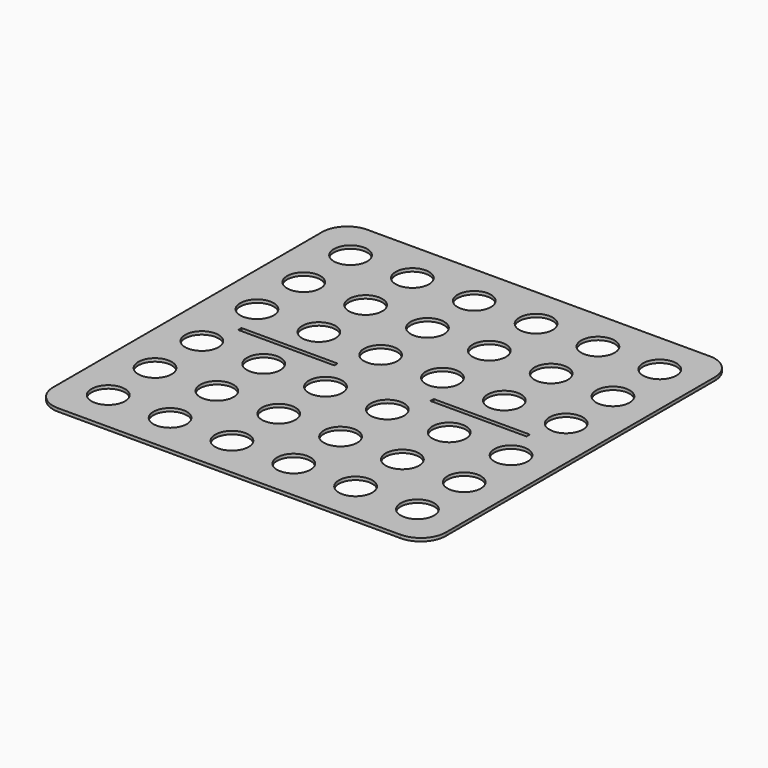
from build123d import *

# Parameters (mm, degrees)
F0_W     = 596.9
F0_H     = 587.3496
F0_R     = 25.4
F1_DEPTH = 4.7752
F2_R     = 38.1
F3_W     = 146.05
F3_H     = 6.35
F4_DEPTH = 25.4


with BuildPart() as f1:
    # F0 (on Top) → F1 (new body)
    with BuildSketch(Plane.XY):
        with Locations((298.45, 293.6748)):
            Rectangle(F0_W, F0_H)
        with Locations((63.5, 63.5)):
            Circle(F0_R, mode=Mode.SUBTRACT)
        with Locations((157.48, 63.5)):
            Circle(F0_R, mode=Mode.SUBTRACT)
        with Locations((251.46, 63.5)):
            Circle(F0_R, mode=Mode.SUBTRACT)
        with Locations((63.5, 152.4)):
            Circle(F0_R, mode=Mode.SUBTRACT)
        with Locations((63.5, 241.3)):
            Circle(F0_R, mode=Mode.SUBTRACT)
        with Locations((157.48, 152.4)):
            Circle(F0_R, mode=Mode.SUBTRACT)
        with Locations((251.46, 152.4)):
            Circle(F0_R, mode=Mode.SUBTRACT)
        with Locations((157.48, 241.3)):
            Circle(F0_R, mode=Mode.SUBTRACT)
        with Locations((251.46, 241.3)):
            Circle(F0_R, mode=Mode.SUBTRACT)
        with Locations((345.44, 63.5)):
            Circle(F0_R, mode=Mode.SUBTRACT)
        with Locations((439.42, 63.5)):
            Circle(F0_R, mode=Mode.SUBTRACT)
        with Locations((533.4, 63.5)):
            Circle(F0_R, mode=Mode.SUBTRACT)
        with Locations((345.44, 152.4)):
            Circle(F0_R, mode=Mode.SUBTRACT)
        with Locations((439.42, 152.4)):
            Circle(F0_R, mode=Mode.SUBTRACT)
        with Locations((345.44, 241.3)):
            Circle(F0_R, mode=Mode.SUBTRACT)
        with Locations((439.42, 241.3)):
            Circle(F0_R, mode=Mode.SUBTRACT)
        with Locations((533.4, 152.4)):
            Circle(F0_R, mode=Mode.SUBTRACT)
        with Locations((533.4, 241.3)):
            Circle(F0_R, mode=Mode.SUBTRACT)
        with Locations((63.5, 346.0496)):
            Circle(F0_R, mode=Mode.SUBTRACT)
        with Locations((63.5, 434.9496)):
            Circle(F0_R, mode=Mode.SUBTRACT)
        with Locations((157.48, 346.0496)):
            Circle(F0_R, mode=Mode.SUBTRACT)
        with Locations((251.46, 346.0496)):
            Circle(F0_R, mode=Mode.SUBTRACT)
        with Locations((157.48, 434.9496)):
            Circle(F0_R, mode=Mode.SUBTRACT)
        with Locations((251.46, 434.9496)):
            Circle(F0_R, mode=Mode.SUBTRACT)
        with Locations((63.5, 523.8496)):
            Circle(F0_R, mode=Mode.SUBTRACT)
        with Locations((157.48, 523.8496)):
            Circle(F0_R, mode=Mode.SUBTRACT)
        with Locations((251.46, 523.8496)):
            Circle(F0_R, mode=Mode.SUBTRACT)
        with Locations((345.44, 346.0496)):
            Circle(F0_R, mode=Mode.SUBTRACT)
        with Locations((439.42, 346.0496)):
            Circle(F0_R, mode=Mode.SUBTRACT)
        with Locations((345.44, 434.9496)):
            Circle(F0_R, mode=Mode.SUBTRACT)
        with Locations((439.42, 434.9496)):
            Circle(F0_R, mode=Mode.SUBTRACT)
        with Locations((533.4, 346.0496)):
            Circle(F0_R, mode=Mode.SUBTRACT)
        with Locations((533.4, 434.9496)):
            Circle(F0_R, mode=Mode.SUBTRACT)
        with Locations((345.44, 523.8496)):
            Circle(F0_R, mode=Mode.SUBTRACT)
        with Locations((439.42, 523.8496)):
            Circle(F0_R, mode=Mode.SUBTRACT)
        with Locations((533.4, 523.8496)):
            Circle(F0_R, mode=Mode.SUBTRACT)
    extrude(amount=F1_DEPTH)

    # F2
    f2_edges = [f1.edges().sort_by_distance(p)[0] for p in [
        (0, 0, 2.3876),
        (596.9, 0, 2.3876),
        (596.9, 587.3496, 2.3876),
        (0, 587.3496, 2.3876),
    ]]
    fillet(f2_edges, radius=F2_R)

    # F3 (on face) → F4 (cut)
    with BuildSketch(Plane.XY.offset(4.7752)):
        with Locations((152.4, 293.6748)):
            Rectangle(F3_W, F3_H)
        with Locations((444.5, 293.6748)):
            Rectangle(F3_W, F3_H)
    extrude(amount=-F4_DEPTH, mode=Mode.SUBTRACT)


solid = f1.part
